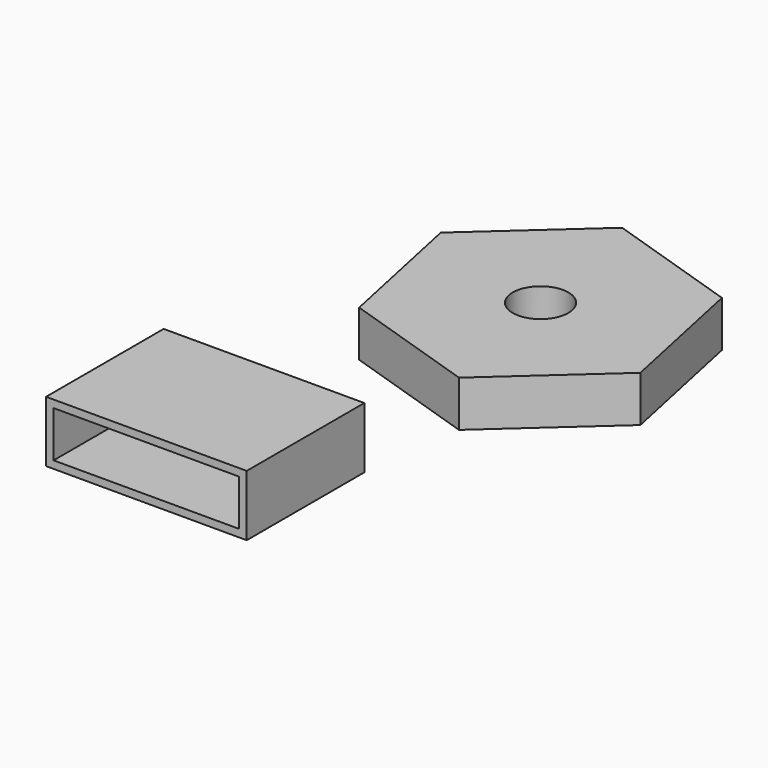
from build123d import *

# Parameters (mm, degrees)
F0_R     = 9.3718433243
F1_DEPTH = 15.494
F0_W     = 62.4983049929
F0_H     = 46.9670684543
F2_T     = 2.54


with BuildPart() as f1:
    # F0 (on Top) → F1 (new body)
    with BuildSketch(Plane.XY):
        Polygon((-45.4377631109, 14.7845537997), (-35.5226807296, -31.9579802454), (9.9150823813, -46.7425340451), (45.4377631109, -14.7845537997), (35.5226807296, 31.9579802454), (-9.9150823813, 46.7425340451), align=None)
        Circle(F0_R, mode=Mode.SUBTRACT)
    extrude(amount=F1_DEPTH)


with BuildPart() as f1b:
    # F0 (on Top) → F1, piece 2 (new body)
    with BuildSketch(Plane.XY):
        with Locations((-31.2491524965, -103.4049693262)):
            Rectangle(F0_W, F0_H)
    extrude(amount=F1_DEPTH)

    # F2
    f2_openings = [f1b.faces().sort_by_distance(p)[0] for p in [
        (-31.249152, -126.888504, 7.747),
    ]]
    offset(amount=F2_T, openings=f2_openings, kind=Kind.INTERSECTION)


solid = Compound([f1.part, f1b.part])
